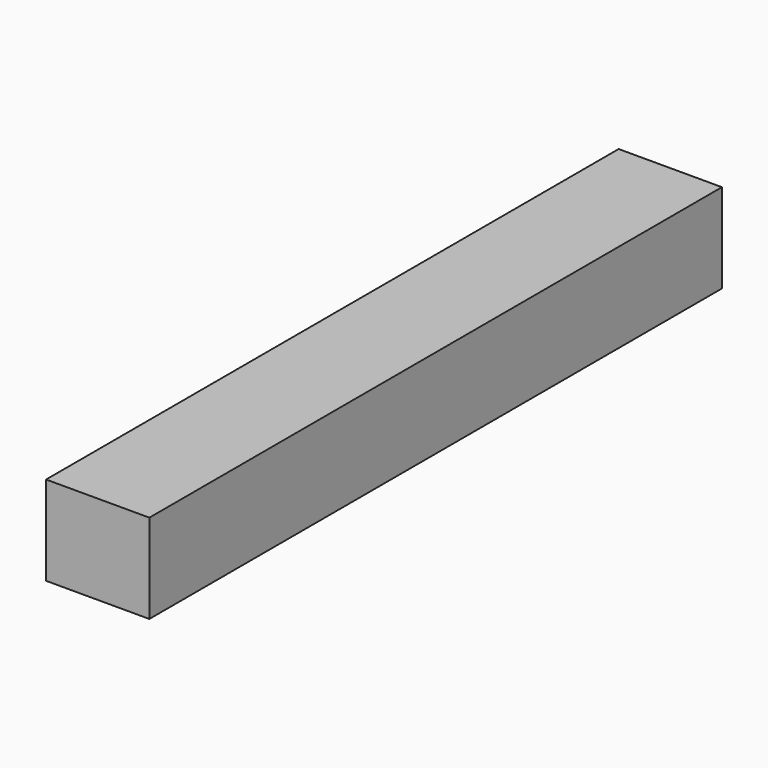
from build123d import *

# Parameters (mm, degrees)
F0_W     = 72.1422024071
F0_H     = 62.3225895688
F2_DEPTH = 250
F1_W     = 72.1422024071
F1_H     = 62.3225895688
F3_R     = 5


with BuildPart() as f2:
    # F0 (on Front) → F2 (new body, symmetric)
    with BuildSketch(Plane.XZ):
        with Locations((36.0711012036, 31.8698310293)):
            Rectangle(F0_W, F0_H)
    extrude(amount=F2_DEPTH, both=True)

    # F3
    f3_edges = [f2.edges().sort_by_distance(p)[0] for p in [
        (72.142202, -250, 31.869831),
        (36.071101, -250, 63.031126),
        (0, -250, 31.869831),
        (36.071101, -250, 0.708536),
    ]]
    fillet(f3_edges, radius=F3_R)


with BuildPart() as f2b:
    # F1 (on face) → F2, piece 2 (new body, symmetric)
    with BuildSketch(Plane.XZ):
        with Locations((36.0711012036, 31.8698310293)):
            Rectangle(F1_W, F1_H)
    extrude(amount=F2_DEPTH, both=True)


solid = Compound([f2.part, f2b.part])
